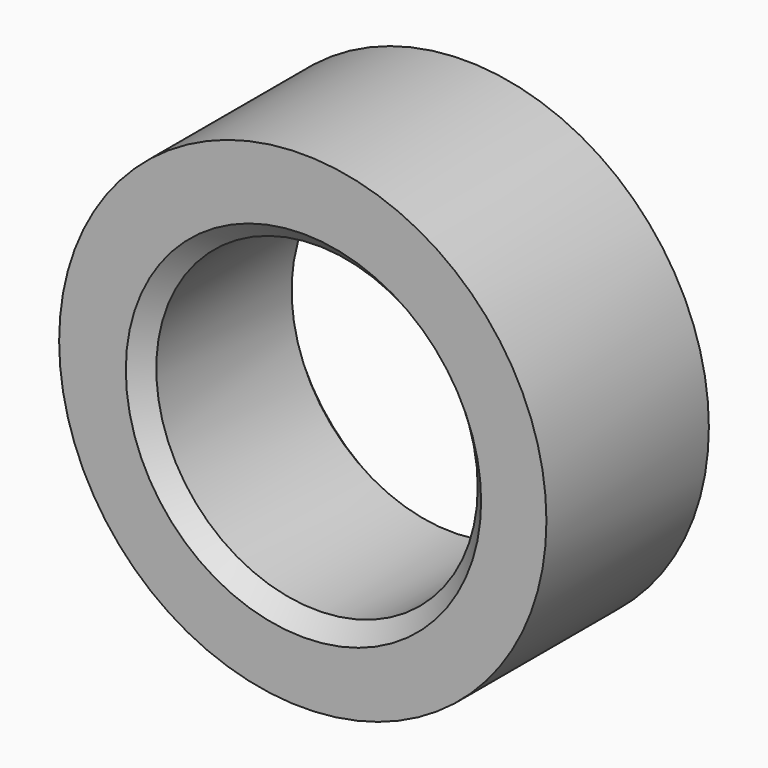
from build123d import *

# Parameters (mm, degrees)
F0_R      = 7.2
F0_R_2    = 4.75
F0_R_3    = 4.5
F1_DEPTH  = 6
F1_FACE_R = 4.5
F2_DEPTH  = 6.001
F3_SIZE2  = 0.5
F3_SIZE   = 0.5


with BuildPart() as f1:
    # F0 (on Front) → F1 (new body)
    with BuildSketch(Plane.XZ):
        with Locations((-0.020111, 0.117168)):
            Circle(F0_R)
        Circle(F0_R_2, mode=Mode.SUBTRACT)
        Circle(F0_R_3)
    extrude(amount=F1_DEPTH)

    # F1_face (on face) → F2 (cut, through all)
    with BuildSketch(Plane.XZ.offset(6)):
        Circle(F1_FACE_R)
    extrude(amount=-F2_DEPTH, mode=Mode.SUBTRACT)

    # F3
    f3_edges = [f1.edges().sort_by_distance(p)[0] for p in [
        (4.75, -3, 0),
        (-4.75, 0, 0),
        (-4.75, -6, 0),
    ]]
    chamfer(f3_edges, length=F3_SIZE, length2=F3_SIZE2)


solid = f1.part
